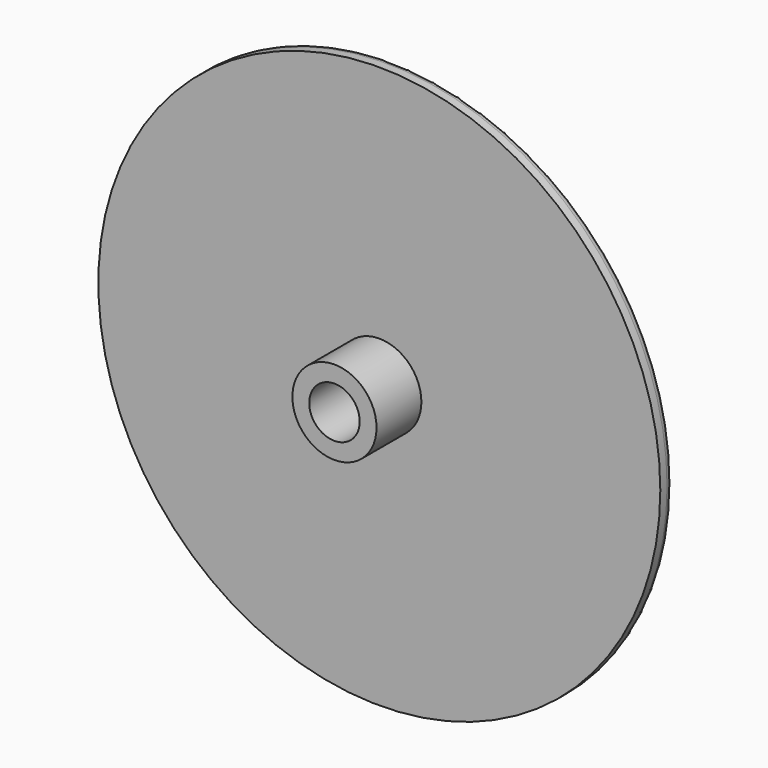
from build123d import *

# Parameters (mm, degrees)
F0_R     = 50.1
F0_R_2   = 4.5
F1_DEPTH = 3
F2_R     = 7.5
F2_R_2   = 4.5
F3_DEPTH = 10
F4_R     = 1.5


with BuildPart() as f1:
    # F0 (on Front) → F1 (new body)
    with BuildSketch(Plane.XZ):
        Circle(F0_R)
        Circle(F0_R_2, mode=Mode.SUBTRACT)
    extrude(amount=F1_DEPTH)

    # F2 (on face) → F3 (join)
    with BuildSketch(Plane.XZ.offset(3)):
        Circle(F2_R)
        Circle(F2_R_2, mode=Mode.SUBTRACT)
    extrude(amount=F3_DEPTH)

    # F4
    f4_edges = [f1.edges().sort_by_distance(p)[0] for p in [
        (-50.1, 0, 0),
    ]]
    fillet(f4_edges, radius=F4_R)


solid = f1.part
